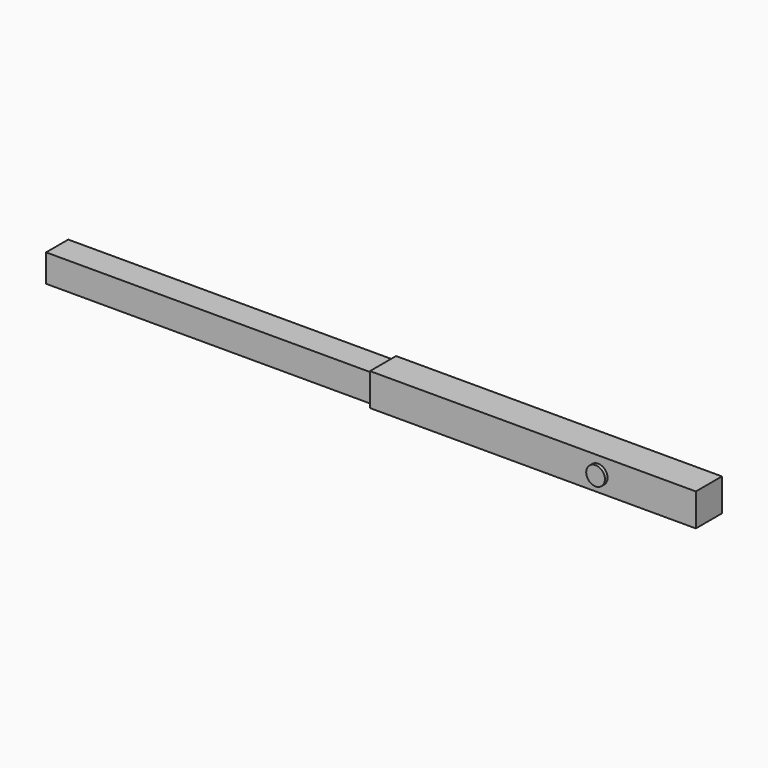
from build123d import *

# Parameters (mm, degrees)
F0_W     = 100
F0_H     = 10
F1_DEPTH = 10
F2_W     = 8.5
F2_H     = 8.5
F3_DEPTH = 100
F4_R     = 2.871916
F5_DEPTH = 1


with BuildPart() as f1:
    # F0 (on Front) → F1 (new body)
    with BuildSketch(Plane.XZ):
        with Locations((-0.948794, -2.716295)):
            Rectangle(F0_W, F0_H)
    extrude(amount=F1_DEPTH)

    # F2 (on face) → F3 (join)
    with BuildSketch(Plane(origin=(-50.948794, 0, 0), x_dir=(0, -1, 0), z_dir=(-1, 0, 0))):
        with Locations((5, -2.716295)):
            Rectangle(F2_W, F2_H)
    extrude(amount=F3_DEPTH)

    # F4 (on face) → F5 (join)
    with BuildSketch(Plane.XZ.offset(10)):
        with Locations((19.08073, -2.832106)):
            Circle(F4_R)
    extrude(amount=F5_DEPTH)


solid = f1.part
